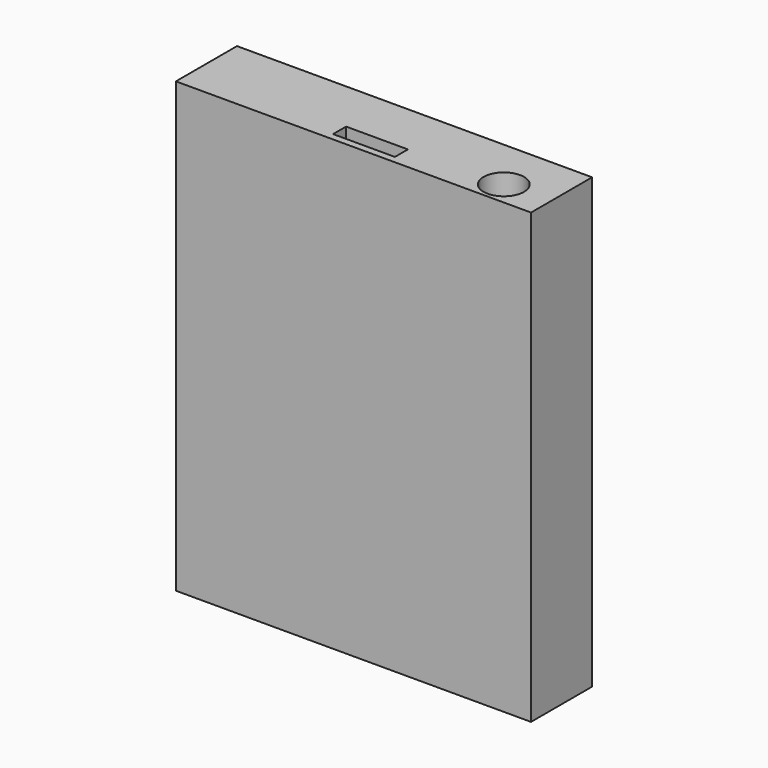
from build123d import *

# Parameters (mm, degrees)
F0_W      = 60.442928
F0_H      = 76.316834
F1_DEPTH  = 13
F2_R      = 4.501425
F3_DEPTH  = 7.874
F4_R      = 3.44672
F5_DEPTH  = 16.764
F6_W      = 10
F6_H      = 4.021608
F7_DEPTH  = 0.7
F8_W      = 12.088504
F8_H      = 2.308511
F9_DEPTH  = 7.874
F10_W     = 10
F10_H     = 2.673487
F11_DEPTH = 8.636
F12_W     = 10.518157
F12_H     = 2.767401
F13_DEPTH = 29.718
F14_R     = 1.567214
F15_DEPTH = 1
F16_W     = 1.627309
F16_H     = 5.575751
F17_DEPTH = 1


with BuildPart() as f1:
    # F0 (on Front) → F1 (new body)
    with BuildSketch(Plane.XZ):
        Rectangle(F0_W, F0_H)
    extrude(amount=F1_DEPTH)

    # F2 (on face) → F3 (cut)
    with BuildSketch(Plane(origin=(0, 0, 0), x_dir=(-1, 0, 0), z_dir=(0, 1, 0))):
        with Locations((-20.47102, 49.871981)):
            Circle(F2_R)
    extrude(amount=F3_DEPTH, mode=Mode.SUBTRACT)

    # F4 (on face) → F5 (cut)
    with BuildSketch(Plane.XY.offset(38.158417)):
        with Locations((22.332672, -8.926389)):
            Circle(F4_R)
    extrude(amount=-F5_DEPTH, mode=Mode.SUBTRACT)

    # F6 (on face) → F7 (join)
    with BuildSketch(Plane(origin=(0, 0, -38.158417), x_dir=(1, 0, 0), z_dir=(0, 0, -1))):
        with Locations((-17.087876, 8.49799)):
            Rectangle(F6_W, F6_H)
    extrude(amount=F7_DEPTH)

    # F8 (on face) → F9 (join)
    with BuildSketch(Plane.XY.offset(38.158417)):
        with Locations((0.475428, -10.475016)):
            Rectangle(F8_W, F8_H)
    extrude(amount=-F9_DEPTH)

    # F10 (on face) → F11 (join)
    with BuildSketch(Plane.XY.offset(38.158417)):
        with Locations((-1.288279, -8.985477)):
            Rectangle(F10_W, F10_H)
    extrude(amount=-F11_DEPTH)

    # F12 (on face) → F13 (cut)
    with BuildSketch(Plane.XY.offset(38.158417)):
        with Locations((0.831678, -10.416227)):
            Rectangle(F12_W, F12_H)
    extrude(amount=-F13_DEPTH, mode=Mode.SUBTRACT)

    # F14 (on face) → F15 (join)
    with BuildSketch(Plane(origin=(-30.221464, 0, 0), x_dir=(0, -1, 0), z_dir=(-1, 0, 0))):
        with Locations((4.903499, -25.651673)):
            Circle(F14_R)
    extrude(amount=F15_DEPTH)

    # F16 (on face) → F17 (join)
    with BuildSketch(Plane(origin=(-30.221464, 0, 0), x_dir=(0, -1, 0), z_dir=(-1, 0, 0))):
        with Locations((4.771643, -18.09097)):
            Rectangle(F16_W, F16_H)
    extrude(amount=F17_DEPTH)


solid = f1.part
